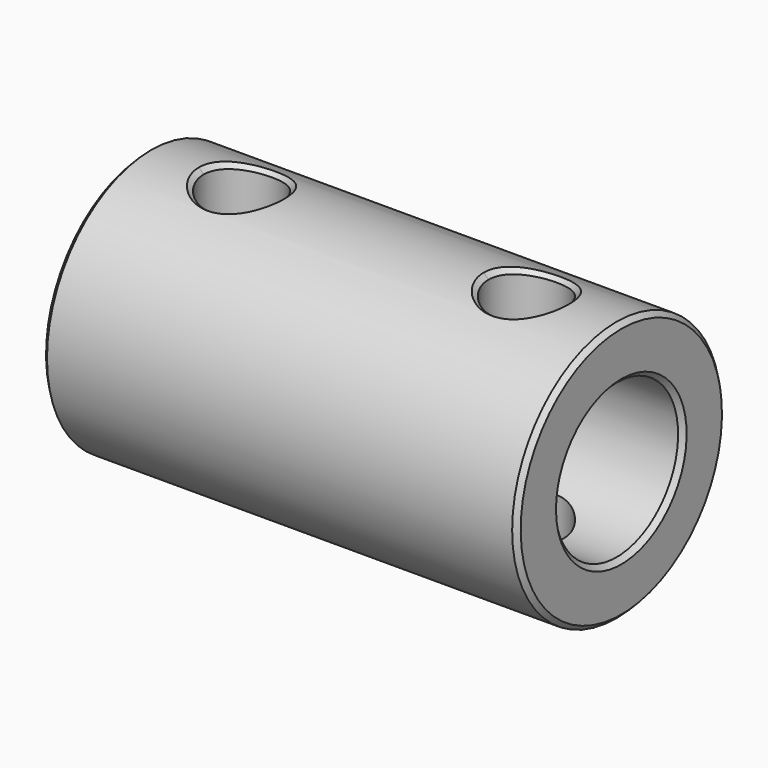
from build123d import *

# Parameters (mm, degrees)
SKETCH001_R  = 2
HOLE_DEPTH   = 20.626
CHAMFER_SIZE = 0.25


with BuildPart() as part:
    # Sketch → Revolution (revolve)
    with BuildSketch(Plane.XZ):
        Polygon((0, 2.55), (0, 6.875), (25, 6.875), (25, 4.05), (12.5, 4.05), (12.5, 2.55), align=None)
    revolve(axis=Axis((0, 0, 0), (1, 0, 0)))

    # Sketch001 → Hole (cut, through all)
    with BuildSketch(Plane.XY.offset(13.75)):
        with Locations((5, 0)):
            Circle(SKETCH001_R)
        with Locations((20, 0)):
            Circle(SKETCH001_R)
    extrude(amount=-HOLE_DEPTH, mode=Mode.SUBTRACT)

    # Chamfer
    chamfer_edges = [part.edges().sort_by_distance(p)[0] for p in [
        (25, 0, -6.875),
        (0, 0, -6.875),
        (25, 0, -4.05),
        (0, 0, -2.55),
        (5, 2, 6.577661),
        (5, -2, 6.577661),
        (20, -2, 6.577661),
        (20, 2, 6.577661),
        (3, 0, -6.875),
        (18, 0, -6.875),
    ]]
    chamfer(chamfer_edges, length=CHAMFER_SIZE)


solid = part.part
